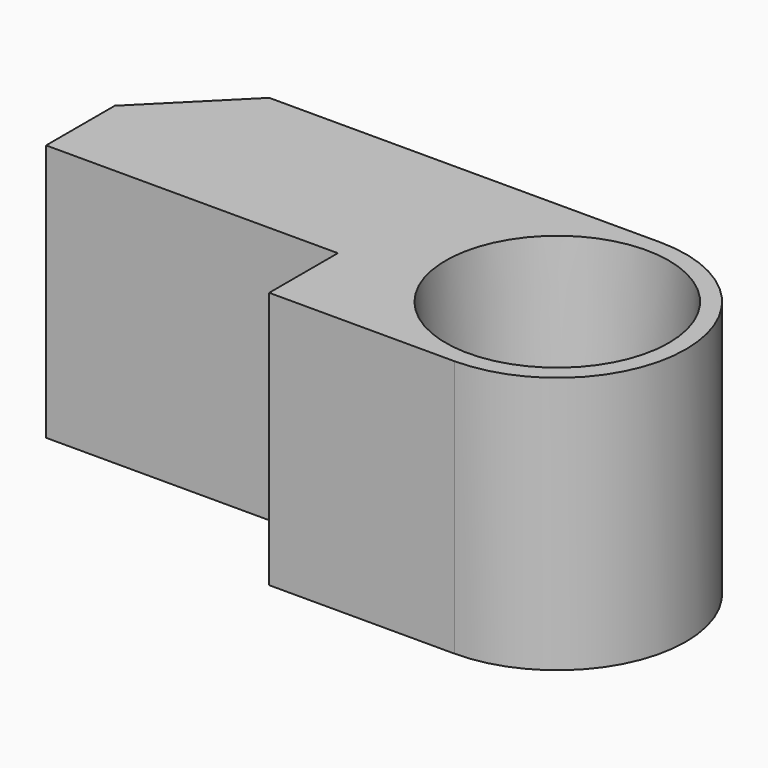
from build123d import *

# Parameters (mm, degrees)
F1_DEPTH = 15
F2_R     = 6.5
F3_DEPTH = 15
F3_TAPER = 3
F4_SIZE  = 5


with BuildPart() as f1:
    # F0 (on Top) → F1 (new body)
    with BuildSketch(Plane.XY):
        with BuildLine():
            Line((-10, -5), (7, -5))
            Line((7, -5), (7, -10))
            Line((7, -10), (10, -10))
            Line((10, -10), (17.7848991007, -10))
            ThreePointArc((17.7848991007, -10), (25.2848991007, -2.5), (17.7848991007, 5))
            Line((17.7848991007, 5), (10, 5))
            Line((10, 5), (-10, 5))
            Line((-10, 5), (-10, -5))
        make_face()
    extrude(amount=F1_DEPTH)

    # F2 (on face) → F3 (cut, through all)
    with BuildSketch(Plane.XY.offset(15)):
        with Locations((17.7848991007, -2.5)):
            Circle(F2_R)
    extrude(amount=-F3_DEPTH, taper=F3_TAPER, mode=Mode.SUBTRACT)

    # F4
    f4_edges = [f1.edges().sort_by_distance(p)[0] for p in [
        (-10, 5, 7.5),
    ]]
    chamfer(f4_edges, length=F4_SIZE)


solid = f1.part
